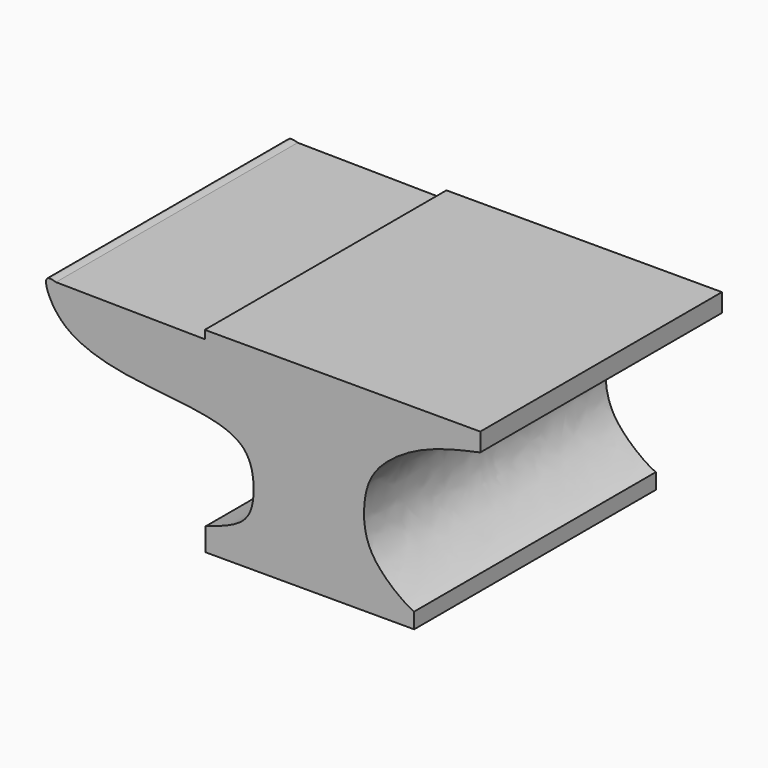
from build123d import *

# Parameters (mm, degrees)
F1_DEPTH = 17.78


with BuildPart() as f1:
    # F0 (on Front) → F1 (new body)
    with BuildSketch(Plane.XZ):
        with BuildLine():
            Line((12.9036614671, -4.1779503226), (-3.3112796955, -4.1779503226))
            Line((-3.3112796955, -4.1779503226), (-3.3112796955, -4.6643987298))
            Line((-3.3112796955, -4.6643987298), (-12.067347765, -4.5562987216))
            add(Edge.make_bspline(
                [(-3.2572299242, -14.339312911), (-2.3943444586, -14.0569322422), (-0.8383621534, -13.5477345078), (-0.3120807277, -11.8760652032), (-0.5834745599, -9.3300342195), (-3.4134914888, -8.4478249187), (-7.0352254827, -8.231145475), (-11.8532306645, -7.3098753851), (-12.9704988677, -4.3057035635), (-12.2934014322, -4.4935761558), (-12.067347765, -4.5562987216)],
                knots=[0, 0, 0, 0, 0.1272253455, 0.2294167583, 0.3506025502, 0.4809363495, 0.6410467779, 0.8207333184, 0.9401505771, 1, 1, 1, 1], degree=3))
            Line((-3.2572299242, -14.339312911), (-3.2572299242, -15.6905576587))
            Line((-3.2572299242, -15.6905576587), (9.0120751411, -15.6905576587))
            Line((9.0120751411, -15.6905576587), (9.0120751411, -14.7717110813))
            add(Edge.make_bspline(
                [(12.9036614671, -5.2589462139), (11.7071202824, -5.5200367573), (9.3898979864, -6.0256648427), (6.5805422305, -7.9894340298), (5.9617744864, -10.0495174792), (6.1247142755, -12.6794516813), (8.3490692568, -14.4687237259), (8.8458058705, -14.695727613), (9.0120751411, -14.7717110813)],
                knots=[0, 0, 0, 0, 0.2085706068, 0.4039179483, 0.5587854477, 0.7319698332, 0.9102840839, 1, 1, 1, 1], degree=3))
            Line((12.9036614671, -5.2589462139), (12.9036614671, -4.1779503226))
        make_face()
    extrude(amount=F1_DEPTH)


solid = f1.part
